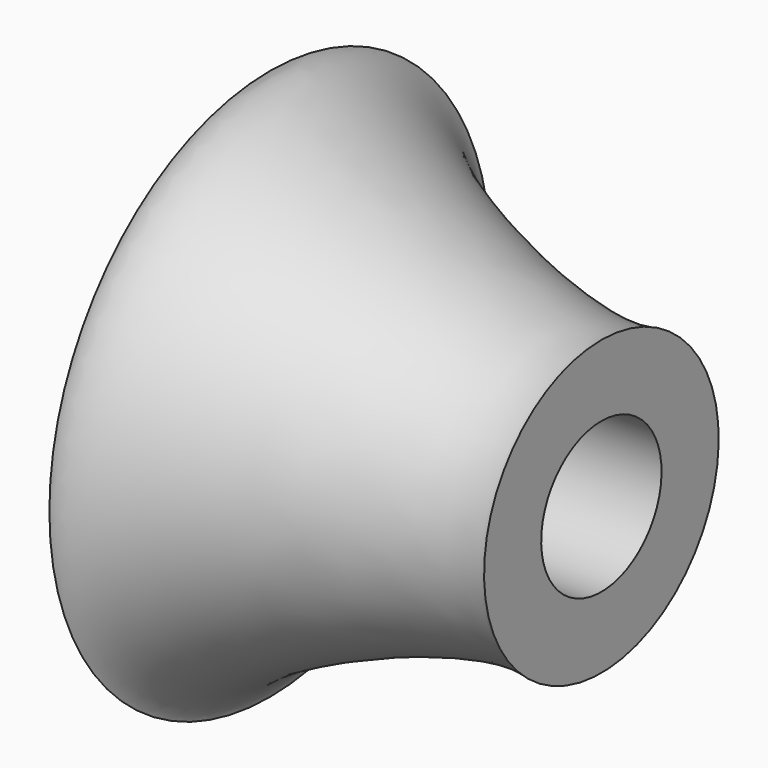
from build123d import *


with BuildPart() as f1:
    # F0 (on Front) → F1 (revolve)
    with BuildSketch(Plane.XZ):
        with BuildLine():
            Line((0, 12.0168656917), (0, 0))
            Line((0, 0), (19.8781844229, 0))
            Line((19.8781844229, 0), (19.8781844229, 4.282456357))
            add(Edge.make_bspline(
                [(0, 12.0168656917), (0.26889105, 9.2592705648), (14.8683413449, 2.907967565), (19.8781844229, 4.282456357)],
                knots=[0.0073674165, 0.0073674165, 0.0073674165, 0.0073674165, 0.4040714124, 0.4040714124, 0.4040714124, 0.4040714124], degree=3))
        make_face()
    revolve(axis=Axis((9.8301963881, 0, -4.5108660124), (1, 0, 0)))


solid = f1.part
